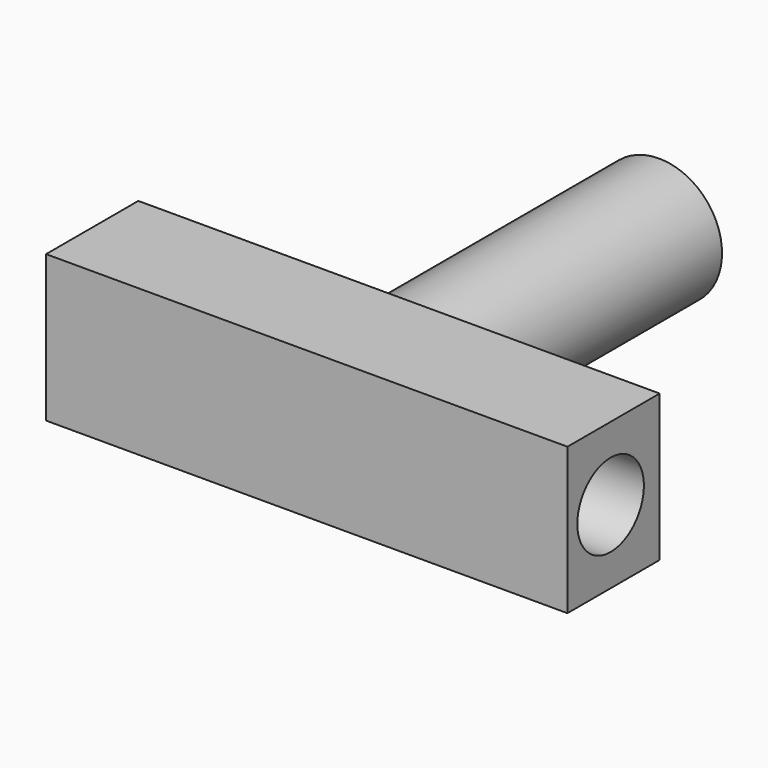
from build123d import *

# Parameters (mm, degrees)
F0_W      = 119.415596
F0_H      = 33.568412
F1_DEPTH  = 1
F1_FACE_W = 119.415596
F1_FACE_H = 33.568412
F2_DEPTH  = 25.4
F4_D      = 19.05
F5_R      = 14.418988
F6_DEPTH  = 76.2


with BuildPart() as f1:
    # F0 (on Front) → F1 (new body)
    with BuildSketch(Plane.XZ):
        with Locations((1.385562, -3.563076)):
            Rectangle(F0_W, F0_H)
    extrude(amount=F1_DEPTH)

    # F1_face (on face) → F2 (join)
    with BuildSketch(Plane(origin=(1.385562, -1, -3.563076), x_dir=(1, 0, 0), z_dir=(0, -1, 0))):
        Rectangle(F1_FACE_W, F1_FACE_H)
    extrude(amount=F2_DEPTH)

    # F4 (through all)
    with Locations(Plane.YZ.offset(61.09336)):
        with Locations((-14.050731, -3.511861)):
            Hole(F4_D / 2)

    # F5 (on face) → F6 (join)
    with BuildSketch(Plane(origin=(0, 0, 0), x_dir=(-1, 0, 0), z_dir=(0, 1, 0))):
        with Locations((0, -4.649602)):
            Circle(F5_R)
    extrude(amount=F6_DEPTH)


solid = f1.part
